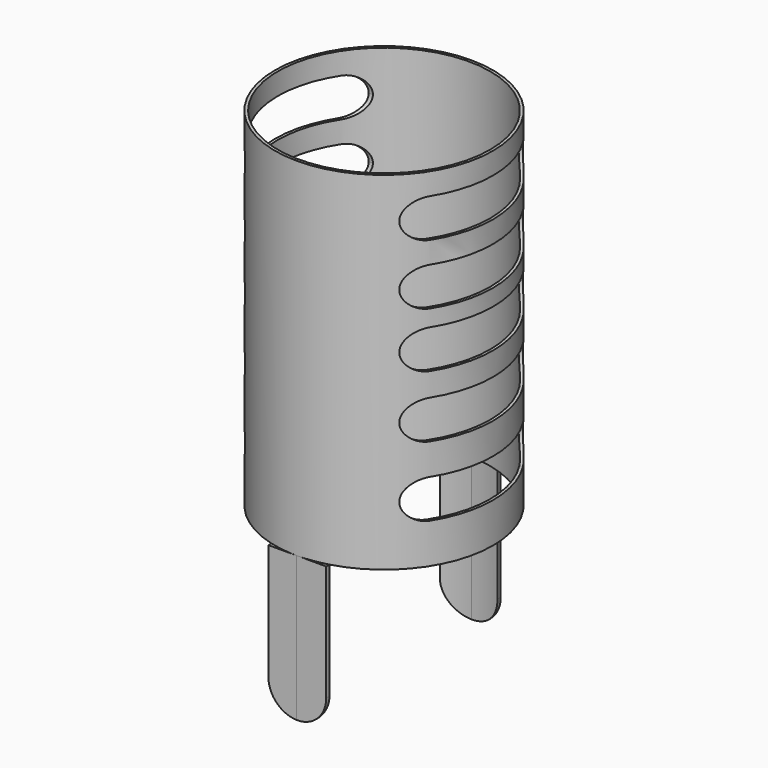
from build123d import *

# Parameters (mm, degrees)
F0_R     = 56.5
F0_R_2   = 55
F1_DEPTH = 180
F3_DEPTH = 75
F4_W     = 30
F4_H     = 60
F5_DEPTH = 56.5
F6_R     = 55
F7_DEPTH = 110
F8_R     = 56.5
F9_DEPTH = 164.8


with BuildPart() as f1:
    # F0 (on Top) → F1 (new body)
    with BuildSketch(Plane.XY):
        Circle(F0_R)
        Circle(F0_R_2, mode=Mode.SUBTRACT)
    extrude(amount=F1_DEPTH)

    # F2 (on Right) → F3 (cut, symmetric)
    with BuildSketch(Plane.YZ):
        with BuildLine():
            ThreePointArc((-40, 30.696195), (-37.071068, 23.625127), (-30, 20.696195))
            Line((-30, 20.696195), (30, 20.696195))
            ThreePointArc((30, 20.696195), (37.071068, 23.625127), (40, 30.696195))
            ThreePointArc((40, 30.696195), (37.071068, 37.767263), (30, 40.696195))
            Line((30, 40.696195), (-30, 40.696195))
            ThreePointArc((-30, 40.696195), (-37.071068, 37.767263), (-40, 30.696195))
        make_face()
        with BuildLine():
            ThreePointArc((-40, 66.849241), (-37.071068, 59.778173), (-30, 56.849241))
            Line((-30, 56.849241), (30, 56.849241))
            ThreePointArc((30, 56.849241), (37.071068, 59.778173), (40, 66.849241))
            ThreePointArc((40, 66.849241), (37.071068, 73.920309), (30, 76.849241))
            Line((30, 76.849241), (-30, 76.849241))
            ThreePointArc((-30, 76.849241), (-37.071068, 73.920309), (-40, 66.849241))
        make_face()
        with BuildLine():
            ThreePointArc((-40, 98.924877), (-37.071068, 91.85381), (-30, 88.924877))
            Line((-30, 88.924877), (30, 88.924877))
            ThreePointArc((30, 88.924877), (37.071068, 91.85381), (40, 98.924877))
            ThreePointArc((40, 98.924877), (37.071068, 105.995945), (30, 108.924877))
            Line((30, 108.924877), (-30, 108.924877))
            ThreePointArc((-30, 108.924877), (-37.071068, 105.995945), (-40, 98.924877))
        make_face()
        with BuildLine():
            ThreePointArc((-40, 127.466755), (-37.071068, 120.395687), (-30, 117.466755))
            Line((-30, 117.466755), (30, 117.466755))
            ThreePointArc((30, 117.466755), (37.071068, 120.395687), (40, 127.466755))
            ThreePointArc((40, 127.466755), (37.071068, 134.537823), (30, 137.466755))
            Line((30, 137.466755), (-30, 137.466755))
            ThreePointArc((-30, 137.466755), (-37.071068, 134.537823), (-40, 127.466755))
        make_face()
        with BuildLine():
            ThreePointArc((-40, 158.72691), (-37.071068, 151.655843), (-30, 148.72691))
            Line((-30, 148.72691), (30, 148.72691))
            ThreePointArc((30, 148.72691), (37.071068, 151.655843), (40, 158.72691))
            ThreePointArc((40, 158.72691), (37.071068, 165.797978), (30, 168.72691))
            Line((30, 168.72691), (-30, 168.72691))
            ThreePointArc((-30, 168.72691), (-37.071068, 165.797978), (-40, 158.72691))
        make_face()
    extrude(amount=F3_DEPTH, both=True, mode=Mode.SUBTRACT)

    # F4 (on Front) → F5 (join, symmetric)
    with BuildSketch(Plane.XZ):
        with Locations((0.273484, -30)):
            Rectangle(F4_W, F4_H)
        with BuildLine():
            Line((15.273484, -60), (-14.726516, -60))
            ThreePointArc((-14.726516, -60), (0.273484, -75), (15.273484, -60))
        make_face()
    extrude(amount=F5_DEPTH, both=True)

    # F6 (on Top) → F7 (cut)
    with BuildSketch(Plane.XY):
        Circle(F6_R)
    extrude(amount=-F7_DEPTH, mode=Mode.SUBTRACT)

    # F8 (on Top) → F9 (cut)
    with BuildSketch(Plane.XY):
        Circle(F8_R)
    extrude(amount=-F9_DEPTH, mode=Mode.SUBTRACT)


solid = f1.part
